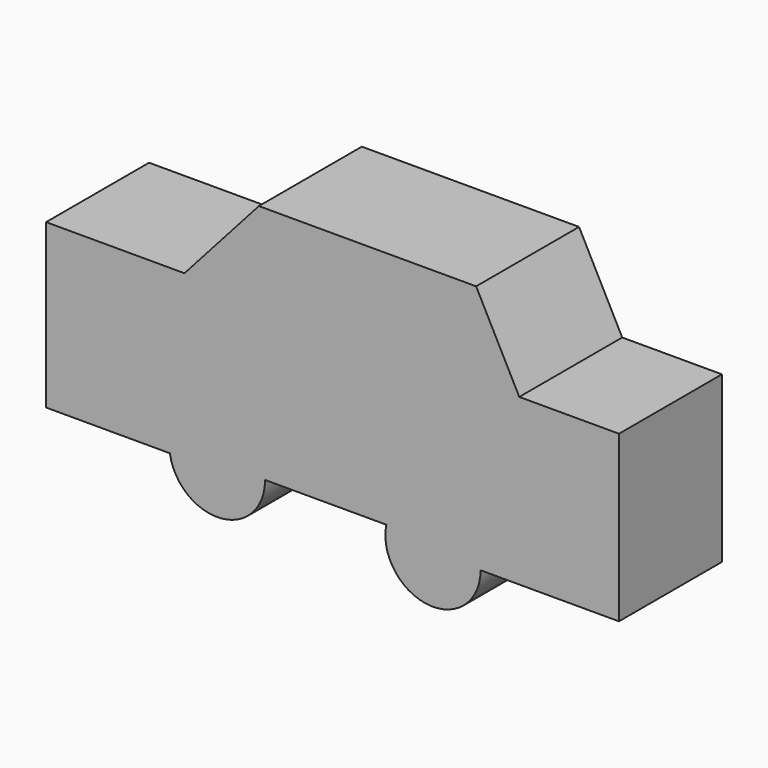
from build123d import *

# Parameters (mm, degrees)
F1_DEPTH = 25.4


with BuildPart() as f1:
    # F0 (on Front) → F1 (new body)
    with BuildSketch(Plane.XZ):
        with BuildLine():
            ThreePointArc((-11.857048, -6.257965), (-22.037992, 3.056631), (-30.633635, -7.738194))
            ThreePointArc((-30.633635, -7.738194), (-20.602034, -15.767768), (-11.856562, -6.353747))
            ThreePointArc((-11.856562, -6.353747), (-11.856684, -6.305856), (-11.857048, -6.257965))
        make_face()
        with BuildLine():
            ThreePointArc((30.692972, -8.120362), (22.225865, 1.235903), (12.073351, -6.257965))
            ThreePointArc((12.073351, -6.257965), (20.354174, -17.476628), (30.692972, -8.120362))
        make_face()
        with BuildLine():
            Line((-55.071495, 24.482412), (-55.071495, -7.738194))
            Line((-55.071495, -7.738194), (-30.633635, -7.738194))
            ThreePointArc((-30.633635, -7.738194), (-22.037992, 3.056631), (-11.857048, -6.257965))
            Line((-11.857048, -6.257965), (12.073351, -6.257965))
            ThreePointArc((12.073351, -6.257965), (22.225865, 1.235903), (30.692972, -8.120362))
            Line((30.692972, -8.120362), (58.002569, -8.118163))
            Line((58.002569, -8.118163), (58.002569, 24.482412))
            Line((58.002569, 24.482412), (38.324751, 24.482412))
            Line((38.324751, 24.482412), (29.807478, 40.929552))
            Line((29.807478, 40.929552), (-13.072556, 40.929552))
            Line((-13.072556, 40.929552), (-27.757501, 24.482412))
            Line((-27.757501, 24.482412), (-55.071495, 24.482412))
        make_face()
    extrude(amount=F1_DEPTH)


solid = f1.part
